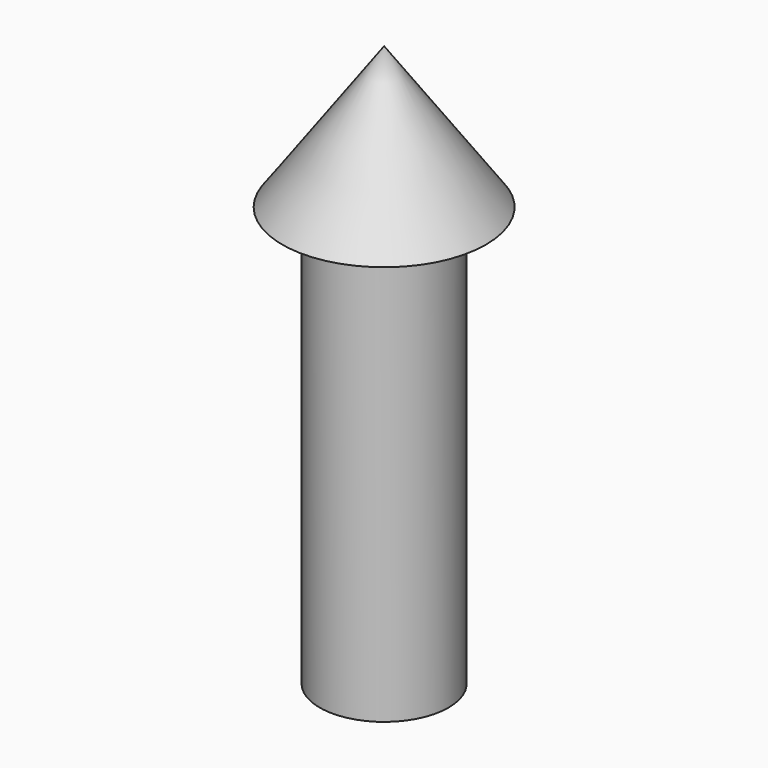
from build123d import *

# Parameters (mm, degrees)
F0_R      = 19.61856
F1_DEPTH  = 111.506
F1_FACE_R = 19.61856
F2_DEPTH  = 25.4


with BuildPart() as f1:
    # F0 (on Top) → F1 (new body)
    with BuildSketch(Plane.XY):
        Circle(F0_R)
    extrude(amount=F1_DEPTH)

    # F1_face (on face) → F2 (join)
    with BuildSketch(Plane.XY.offset(111.506)):
        Circle(F1_FACE_R)
    extrude(amount=F2_DEPTH)


with BuildPart() as f4:
    # F3 (on Front) → F4 (revolve)
    with BuildSketch(Plane.XZ):
        Polygon((0, 170.818225), (0, 127.712995), (19.444138, 127.712995), (31.00552, 127.712995), align=None)
    revolve(axis=Axis((0, 0, 149.26561), (0, 0, 1)))


solid = Compound([f1.part, f4.part])
